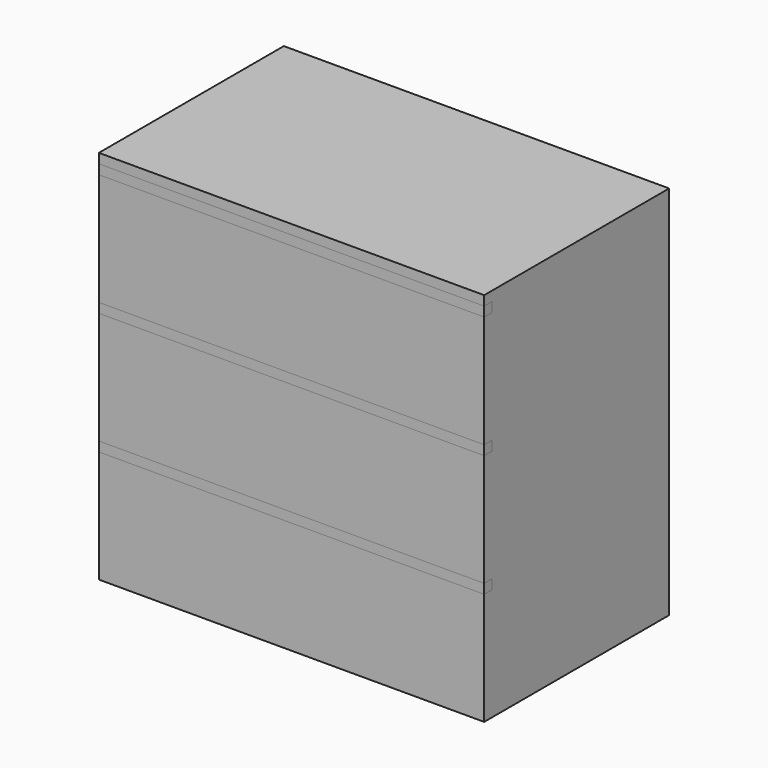
from build123d import *

# Parameters (mm, degrees)
F0_W     = 800
F0_H     = 480
F1_DEPTH = 390
F3_DEPTH = 800


with BuildPart() as f1:
    # F0 (on Top) → F1 (new body, symmetric)
    with BuildSketch(Plane.XY):
        Rectangle(F0_W, F0_H)
    extrude(amount=F1_DEPTH, both=True)


with BuildPart() as f3:
    # F2 (on face) → F3 (new body)
    with BuildSketch(Plane.YZ.offset(400)):
        Polygon((240, 390), (-240, 390), (-240, 370), (-220, 370), (-220, 350), (-240, 350), (-240, 116.6666666667), (-220, 116.6666666667), (-220, 96.6666666667), (-240, 96.6666666667), (-240, -136.6666666667), (-220, -136.6666666667), (-220, -156.6666666667), (-240, -156.6666666667), (-240, -390), (240, -390), align=None)
    extrude(amount=-F3_DEPTH)


solid = Compound([f1.part, f3.part])
